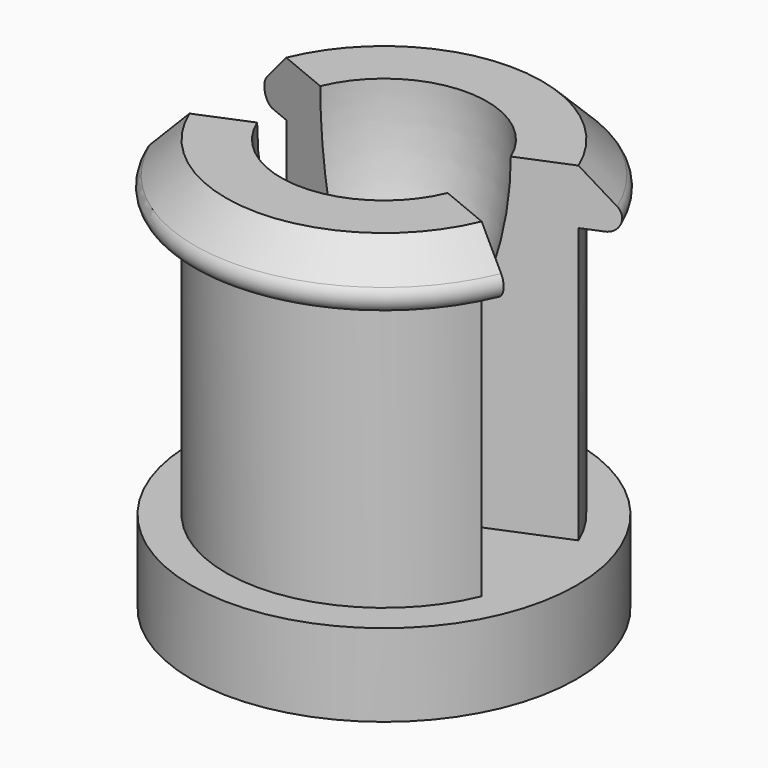
from build123d import *

# Parameters (mm, degrees)
SKETCH008_R         = 7
PAD002_DEPTH        = 3
REVOLUTION001_ANGLE = -135


with BuildPart() as part:
    # Sketch008 → Pad002 (new body)
    with BuildSketch(Plane.XY):
        Circle(SKETCH008_R)
    extrude(amount=-PAD002_DEPTH)

    # Sketch007 → Revolution001 (revolve)
    with BuildSketch(Plane(origin=(0, 0, 0), x_dir=(0.92388, -0.382683, 0), z_dir=(-0.382683, -0.92388, 0))):
        with BuildLine():
            Line((5.75, 0), (5.75, 10))
            Line((5.75, 10), (6.542893, 10))
            ThreePointArc((6.542893, 10), (7.004833, 10.308658), (6.896447, 10.853553))
            Line((6.896447, 10.853553), (5.75, 12))
            Line((5.75, 12), (3.75, 12))
            ThreePointArc((0, 3), (2.775, 7.125), (3.75, 12))
            Line((0, 0), (0, 3))
            Line((5.75, 0), (0, 0))
        make_face()
    revolution001 = revolve(axis=Axis((0, 0, 0), (0, 0, 1)), revolution_arc=REVOLUTION001_ANGLE)

    # Mirrored001: Revolution001 across XZ
    add(revolution001.mirror(Plane.XZ))


solid = part.part
